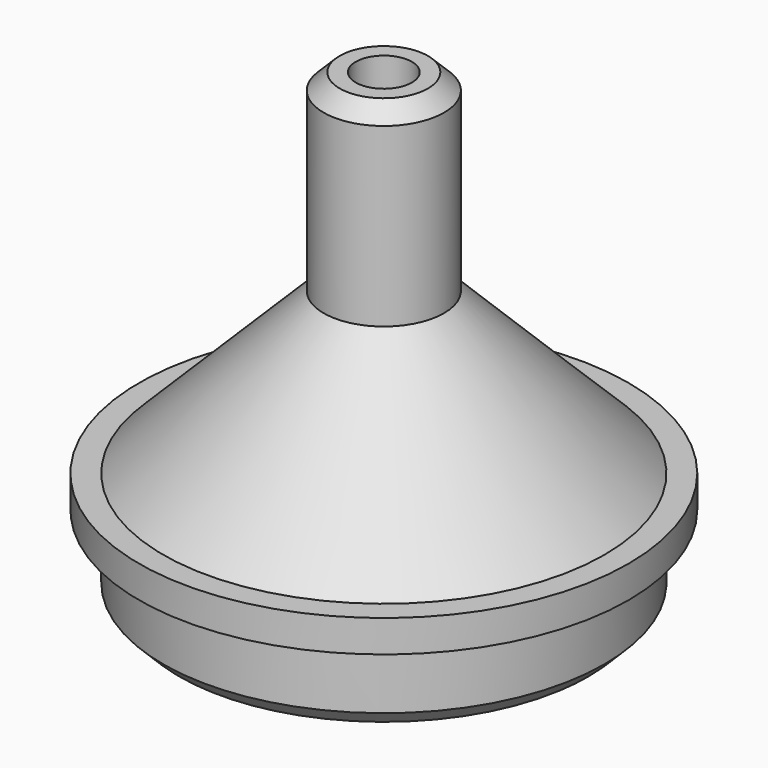
from build123d import *

# Parameters (mm, degrees)
CHAMFER_SIZE = 1


with BuildPart() as part:
    # AdditivePipe: sweep along a path in Sketch001
    with BuildLine(Plane.XY) as additivepipe_path:
        CenterArc((0, 0), 15, 0, 360)
    # Sketch → AdditivePipe (sweep)
    with BuildSketch(Plane.XZ):
        Polygon((1.75, 29), (1.75, 17), (11.75, 7), (11.75, 0), (13.75, 0), (13.75, 5), (15.25, 5), (15.25, 7), (13.75, 7), (3.75, 17), (3.75, 29), align=None)
    sweep(path=additivepipe_path.line)

    # Chamfer
    chamfer_edges = [part.edges().sort_by_distance(p)[0] for p in [
        (-3.75, 0, 29),
        (-13.75, 0, 0),
    ]]
    chamfer(chamfer_edges, length=CHAMFER_SIZE)


solid = part.part
